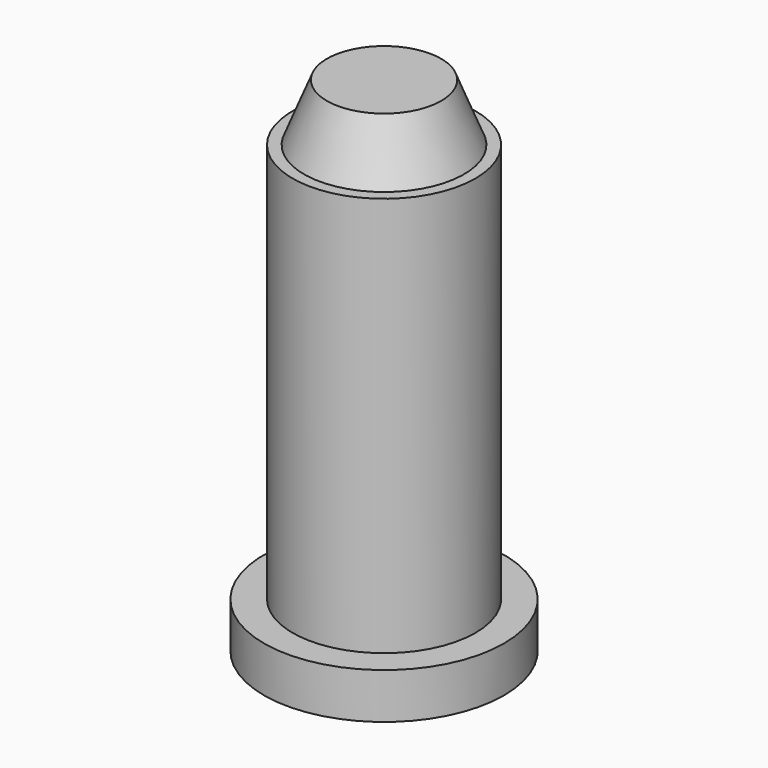
from build123d import *

# Parameters (mm, degrees)
F0_R     = 10.5
F1_DEPTH = 4
F2_R     = 8
F3_DEPTH = 39


with BuildPart() as f1:
    # F0 (on Top) → F1 (new body)
    with BuildSketch(Plane.XY):
        Circle(F0_R)
    extrude(amount=F1_DEPTH)

    # F2 (on Top) → F3 (join)
    with BuildSketch(Plane.XY):
        Circle(F2_R)
    extrude(amount=F3_DEPTH)

    # F4 (on Right) → F5 (revolve)
    with BuildSketch(Plane.YZ):
        Polygon((5, 44), (0, 44), (0, 39), (7, 39), align=None)
    revolve(axis=Axis((0, 0, 41.5), (0, 0, -1)))


solid = f1.part
